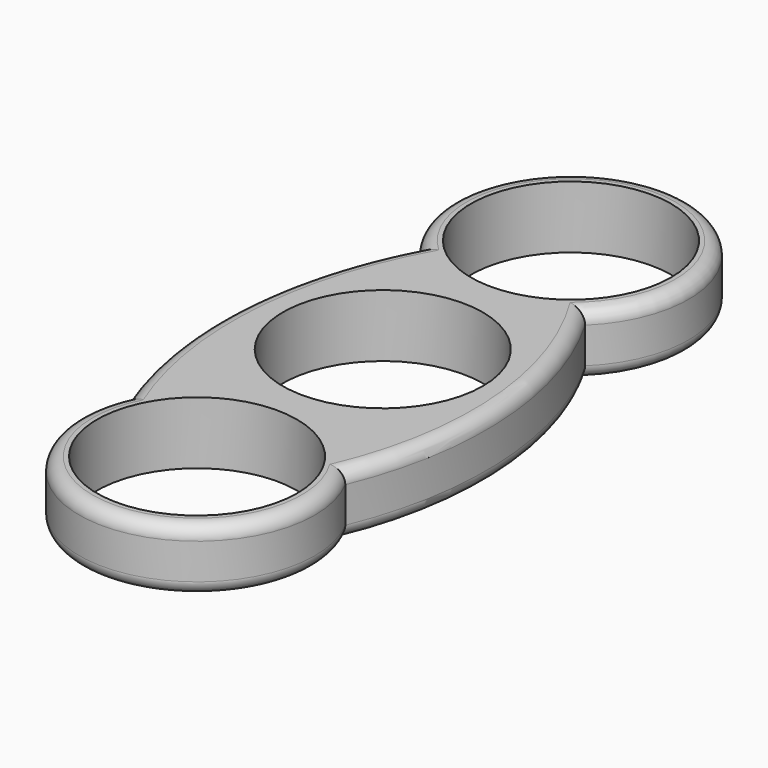
from build123d import *

# Parameters (mm, degrees)
F0_R     = 11.2
F1_DEPTH = 7
F2_R     = 1.5


with BuildPart() as f1:
    # F0 (on Top) → F1 (new body)
    with BuildSketch(Plane.XY):
        with BuildLine():
            ThreePointArc((-9.762461, 17.457459), (-15.01398, -1.284826), (-12.006769, -20.515228))
            ThreePointArc((-12.006769, -20.515228), (0.379346, -39.194072), (11.671847, -19.834462))
            ThreePointArc((11.671847, -19.834462), (14.727794, -1.196617), (9.180124, 16.856954))
            ThreePointArc((9.180124, 16.856954), (0.418247, 39.535332), (-9.762461, 17.457459))
        make_face()
        with Locations((0, -25.999524)):
            Circle(F0_R, mode=Mode.SUBTRACT)
        Circle(F0_R, mode=Mode.SUBTRACT)
        with Locations((0, 26.34196)):
            Circle(F0_R, mode=Mode.SUBTRACT)
    extrude(amount=F1_DEPTH)

    # F2
    f2_edges = [f1.edges().sort_by_distance(p)[0] for p in [
        (0.379346, -39.194072, 7),
        (0.379346, -39.194072, 0),
        (14.727794, -1.196617, 7),
        (14.727794, -1.196617, 0),
        (0.418247, 39.535332, 7),
        (0.418247, 39.535332, 0),
        (-15.01398, -1.284826, 7),
        (-15.01398, -1.284826, 0),
    ]]
    fillet(f2_edges, radius=F2_R)


solid = f1.part
